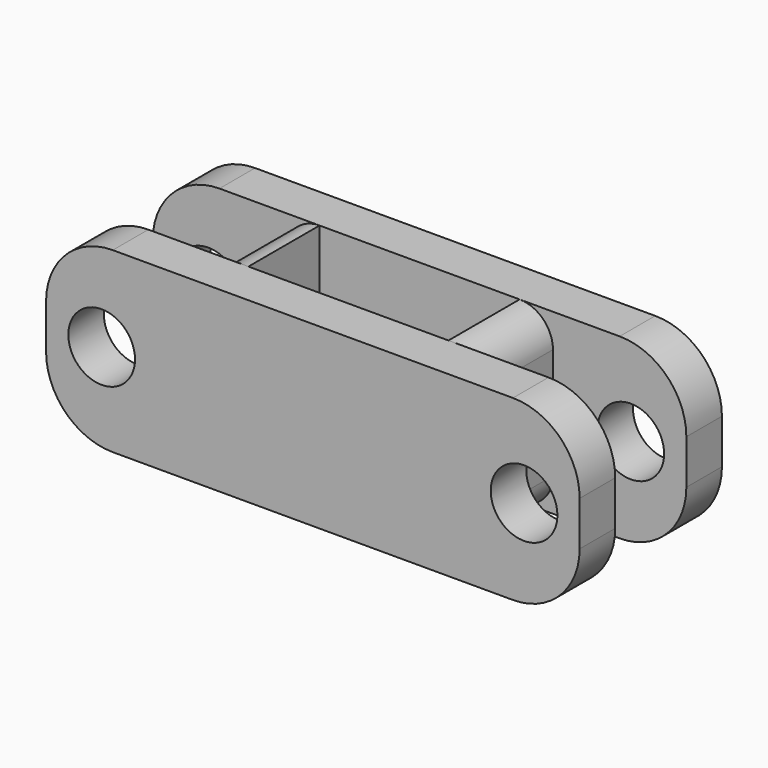
from build123d import *

# Parameters (mm, degrees)
F0_W     = 24
F0_H     = 8
F1_DEPTH = 4
F2_W     = 6
F2_H     = 4
F3_DEPTH = 25
F4_R     = 1.5
F5_DEPTH = 25
F6_R     = 3
F7_R     = 1.5
F8_W     = 9
F8_H     = 4
F9_DEPTH = 25


with BuildPart() as f1:
    # F0 (on Top) → F1 (new body, symmetric)
    with BuildSketch(Plane.XY):
        Rectangle(F0_W, F0_H)
    extrude(amount=F1_DEPTH, both=True)

    # F2 (on face) → F3 (cut)
    with BuildSketch(Plane.XY.offset(4)):
        with Locations((-9, 0)):
            Rectangle(F2_W, F2_H)
        with Locations((9, 0)):
            Rectangle(F2_W, F2_H)
    extrude(amount=-F3_DEPTH, mode=Mode.SUBTRACT)

    # F4 (on face) → F5 (cut)
    with BuildSketch(Plane.XZ.offset(4)):
        with Locations((-9.5, 0)):
            Circle(F4_R)
        with Locations((9.5, 0)):
            Circle(F4_R)
    extrude(amount=-F5_DEPTH, mode=Mode.SUBTRACT)

    # F6
    f6_edges = [f1.edges().sort_by_distance(p)[0] for p in [
        (12, -3, 4),
        (12, 3, 4),
        (12, -3, -4),
        (12, 3, -4),
        (-12, -3, 4),
        (-12, 3, 4),
        (-12, -3, -4),
        (-12, 3, -4),
    ]]
    fillet(f6_edges, radius=F6_R)

    # F7
    f7_edges = [f1.edges().sort_by_distance(p)[0] for p in [
        (6, 0, 4),
        (-6, 0, 4),
        (6, 0, -4),
        (-6, 0, -4),
    ]]
    fillet(f7_edges, radius=F7_R)

    # F8 (on face) → F9 (cut)
    with BuildSketch(Plane.XY.offset(4)):
        Rectangle(F8_W, F8_H)
    extrude(amount=-F9_DEPTH, mode=Mode.SUBTRACT)


solid = f1.part
